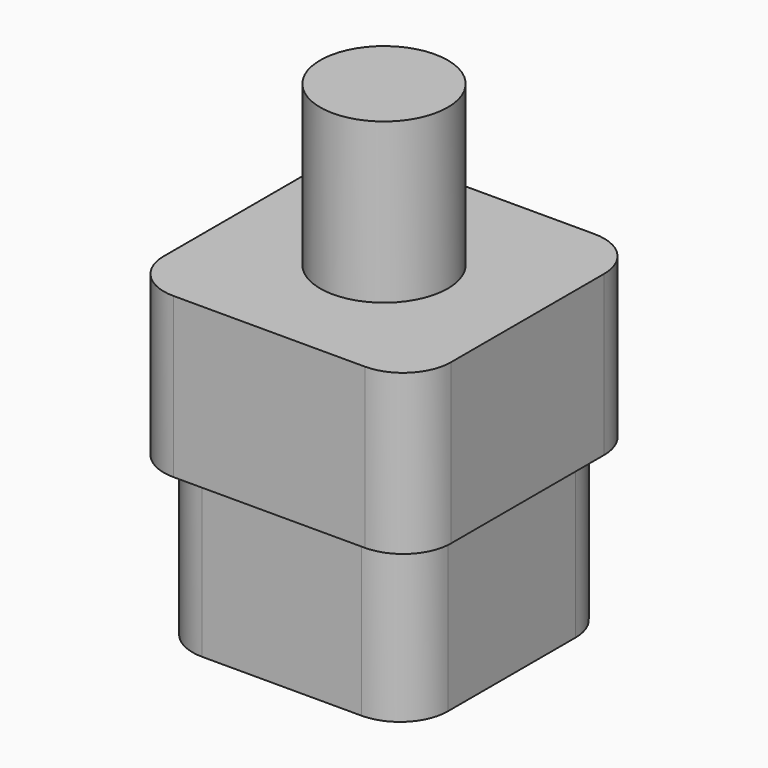
from build123d import *

# Parameters (mm, degrees)
F1_DEPTH = 10
F3_DEPTH = 10
F4_R     = 4
F5_DEPTH = 10


with BuildPart() as f1:
    # F0 (on Top) → F1 (new body)
    with BuildSketch(Plane.XY):
        with BuildLine():
            ThreePointArc((0, -3), (-0.87868, -0.87868), (-3, 0))
            Line((-3, 0), (-13, 0))
            ThreePointArc((-13, 0), (-15.12132, -0.87868), (-16, -3))
            Line((-16, -3), (-16, -13))
            ThreePointArc((-16, -13), (-15.12132, -15.12132), (-13, -16))
            Line((-13, -16), (-3, -16))
            ThreePointArc((-3, -16), (-0.87868, -15.12132), (0, -13))
            Line((0, -13), (0, -3))
        make_face()
    extrude(amount=F1_DEPTH)

    # F2 (on face) → F3 (join)
    with BuildSketch(Plane.XY.offset(10)):
        with BuildLine():
            Line((-2, 1), (-14, 1))
            ThreePointArc((-14, 1), (-16.12132, 0.12132), (-17, -2))
            Line((-17, -2), (-17, -14))
            ThreePointArc((-17, -14), (-16.12132, -16.12132), (-14, -17))
            Line((-14, -17), (-2, -17))
            ThreePointArc((-2, -17), (0.12132, -16.12132), (1, -14))
            Line((1, -14), (1, -2))
            ThreePointArc((1, -2), (0.12132, 0.12132), (-2, 1))
        make_face()
    extrude(amount=F3_DEPTH)

    # F4 (on face) → F5 (join)
    with BuildSketch(Plane.XY.offset(20)):
        with Locations((-8, -8)):
            Circle(F4_R)
    extrude(amount=F5_DEPTH)


solid = f1.part
